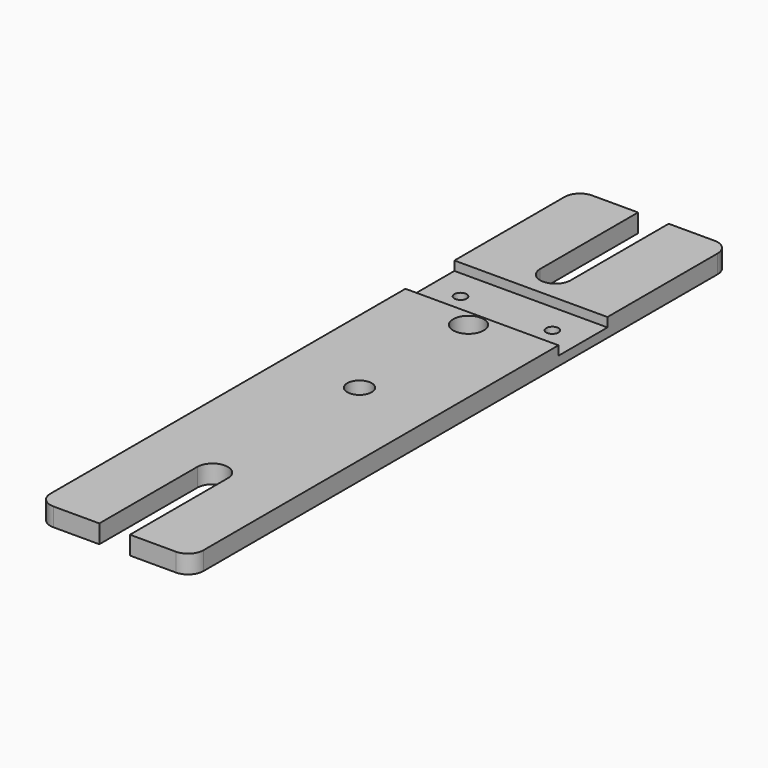
from build123d import *

# Parameters (mm, degrees)
F1_DEPTH = 6
F2_W     = 10
F2_H     = 12.1811708808
F2_R     = 4
F2_R_2   = 5
F2_R_3   = 2
F2_H_2   = 27.5950810313
F3_DEPTH = 25
F5_DEPTH = 3


with BuildPart() as f1:
    # F0 (on Top) → F1 (new body)
    with BuildSketch(Plane.XY):
        with BuildLine():
            Line((20, 110), (-20, 110))
            ThreePointArc((-20, 110), (-23.5355339059, 108.5355339059), (-25, 105))
            Line((-25, 105), (-25, -105))
            ThreePointArc((-25, -105), (-23.5355339059, -108.5355339059), (-20, -110))
            Line((-20, -110), (20, -110))
            ThreePointArc((20, -110), (23.5355339059, -108.5355339059), (25, -105))
            Line((25, -105), (25, 105))
            ThreePointArc((25, 105), (23.5355339059, 108.5355339059), (20, 110))
        make_face()
    extrude(amount=F1_DEPTH)

    # F2 (on face) → F3 (cut)
    with BuildSketch(Plane.XY.offset(6)):
        with Locations((0, -103.9094145596)):
            Rectangle(F2_W, F2_H)
        with BuildLine():
            Line((-5, -97.8188291192), (5, -97.8188291192))
            Line((5, -97.8188291192), (5, -70))
            ThreePointArc((5, -70), (0, -65), (-5, -70))
            Line((-5, -70), (-5, -97.8188291192))
        make_face()
        with Locations((0, -10)):
            Circle(F2_R)
        with Locations((0, 34.5)):
            Circle(F2_R_2)
        with Locations((-15, 50)):
            Circle(F2_R_3)
        with BuildLine():
            ThreePointArc((16.2007454783, 51.5994406198), (13, 50), (16.2007454783, 48.4005593802))
            Line((16.2007454783, 48.4005593802), (16.2007454783, 51.5994406198))
        make_face()
        with BuildLine():
            Line((5, 70), (5, 82.4049189687))
            Line((5, 82.4049189687), (-5, 82.4049189687))
            Line((-5, 82.4049189687), (-5, 70))
            ThreePointArc((-5, 70), (0, 65), (5, 70))
        make_face()
        with Locations((0, 96.2024594843)):
            Rectangle(F2_W, F2_H_2)
        with BuildLine():
            Line((16.2007454783, 51.5994406198), (16.2007454783, 48.4005593802))
            ThreePointArc((16.2007454783, 48.4005593802), (16.7890627374, 49.1059896412), (17, 50))
            ThreePointArc((17, 50), (16.7890627374, 50.8940103588), (16.2007454783, 51.5994406198))
        make_face()
    extrude(amount=-F3_DEPTH, mode=Mode.SUBTRACT)

    # F4 (on face) → F5 (cut)
    with BuildSketch(Plane.XY.offset(6)):
        Polygon((25, 60), (12.5, 60), (-25, 60), (-25, 40), (25, 40), align=None)
    extrude(amount=-F5_DEPTH, mode=Mode.SUBTRACT)


solid = f1.part
